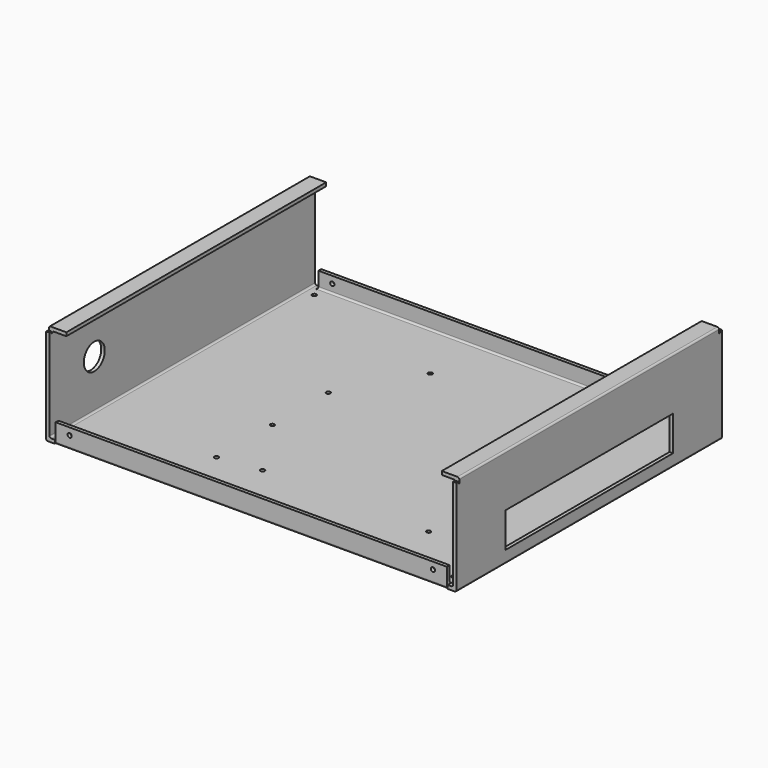
from build123d import *

# Parameters (mm, degrees)
F1_DEPTH  = 2
F2_W      = 2
F2_H      = 190
F3_DEPTH  = 53
F4_R      = 1
F5_W      = 10
F5_H      = 186
F6_DEPTH  = 2
F7_R      = 1
F8_W      = 224
F8_H      = 2
F9_DEPTH  = 9
F10_R     = 1
F11_W     = 0.5
F11_H     = 1
F12_DEPTH = 235.001
F13_R     = 7.5
F14_DEPTH = 3
F15_R     = 1.2
F16_DEPTH = 3
F17_R     = 1.2
F18_DEPTH = 190.001
F19_W     = 120
F19_H     = 20
F20_DEPTH = 3


with BuildPart() as f1:
    # F0 (on Top) → F1 (new body)
    with BuildSketch(Plane.XY):
        Polygon((112.5, -95), (117.5, -95), (117.5, 95), (112.5, 95), (112.5, 92), (112, 92), (112, 95), (-112, 95), (-112, 92), (-112.5, 92), (-112.5, 95), (-117.5, 95), (-117.5, -95), (-112.5, -95), (-112.5, -92), (-112, -92), (-112, -95), (112, -95), (112, -92), (112.5, -92), align=None)
    extrude(amount=F1_DEPTH)

    # F2 (on face) → F3 (join)
    with BuildSketch(Plane.XY.offset(2)):
        with Locations((116.5, 0)):
            Rectangle(F2_W, F2_H)
        with Locations((-116.5, 0)):
            Rectangle(F2_W, F2_H)
    extrude(amount=F3_DEPTH)

    # F4
    f4_edges = [f1.edges().sort_by_distance(p)[0] for p in [
        (-117.5, 0, 0),
        (117.5, 0, 0),
        (-115.5, 0, 2),
        (115.5, 0, 2),
    ]]
    fillet(f4_edges, radius=F4_R)

    # F5 (on face) → F6 (join)
    with BuildSketch(Plane.XY.offset(55)):
        with Locations((-112.5, 0)):
            Rectangle(F5_W, F5_H)
        with Locations((112.5, 0)):
            Rectangle(F5_W, F5_H)
    extrude(amount=F6_DEPTH)

    # F7
    f7_edges = [f1.edges().sort_by_distance(p)[0] for p in [
        (-117.5, 0, 57),
        (117.5, 0, 57),
        (-115.5, 0, 55),
        (115.5, 0, 55),
    ]]
    fillet(f7_edges, radius=F7_R)

    # F8 (on face) → F9 (join)
    with BuildSketch(Plane.XY.offset(2)):
        with Locations((0, -94)):
            Rectangle(F8_W, F8_H)
        with Locations((0, 94)):
            Rectangle(F8_W, F8_H)
    extrude(amount=F9_DEPTH)

    # F10
    f10_edges = [f1.edges().sort_by_distance(p)[0] for p in [
        (0, -95, 0),
        (0, -93, 2),
        (0, 93, 2),
        (0, 95, 0),
    ]]
    fillet(f10_edges, radius=F10_R)

    # F11 (on face) → F12 (cut, through all)
    with BuildSketch(Plane(origin=(-117.5, 0, 0), x_dir=(0, -1, 0), z_dir=(-1, 0, 0))):
        with Locations((93.25, 54.5)):
            Rectangle(F11_W, F11_H)
        with Locations((-93.25, 54.5)):
            Rectangle(F11_W, F11_H)
    extrude(amount=-F12_DEPTH, mode=Mode.SUBTRACT)

    # F13 (on face) → F14 (cut)
    with BuildSketch(Plane(origin=(-117.5, 0, 0), x_dir=(0, -1, 0), z_dir=(-1, 0, 0))):
        with Locations((63, 30)):
            Circle(F13_R)
    extrude(amount=-F14_DEPTH, mode=Mode.SUBTRACT)

    # F15 (on face) → F16 (cut)
    with BuildSketch(Plane.XY.offset(2)):
        with Locations((-109.5, 87)):
            Circle(F15_R)
        with Locations((109.5, 87)):
            Circle(F15_R)
        with Locations((-109.5, -87)):
            Circle(F15_R)
        with Locations((109.5, -87)):
            Circle(F15_R)
        with Locations((-21.5, 60)):
            Circle(F15_R)
        with Locations((73.5, 60)):
            Circle(F15_R)
        with Locations((-21.5, -60)):
            Circle(F15_R)
        with Locations((73.5, -60)):
            Circle(F15_R)
        with Locations((-45.5, 17)):
            Circle(F15_R)
        with Locations((-45.5, -23)):
            Circle(F15_R)
        with Locations((-45.5, -63)):
            Circle(F15_R)
    extrude(amount=-F16_DEPTH, mode=Mode.SUBTRACT)

    # F17 (on face) → F18 (cut, through all)
    with BuildSketch(Plane.XZ.offset(95)):
        with Locations((104, 7)):
            Circle(F17_R)
        with Locations((-104, 7)):
            Circle(F17_R)
    extrude(amount=-F18_DEPTH, mode=Mode.SUBTRACT)

    # F19 (on face) → F20 (cut)
    with BuildSketch(Plane.YZ.offset(117.5)):
        with Locations((0, 17)):
            Rectangle(F19_W, F19_H)
    extrude(amount=-F20_DEPTH, mode=Mode.SUBTRACT)


solid = f1.part
